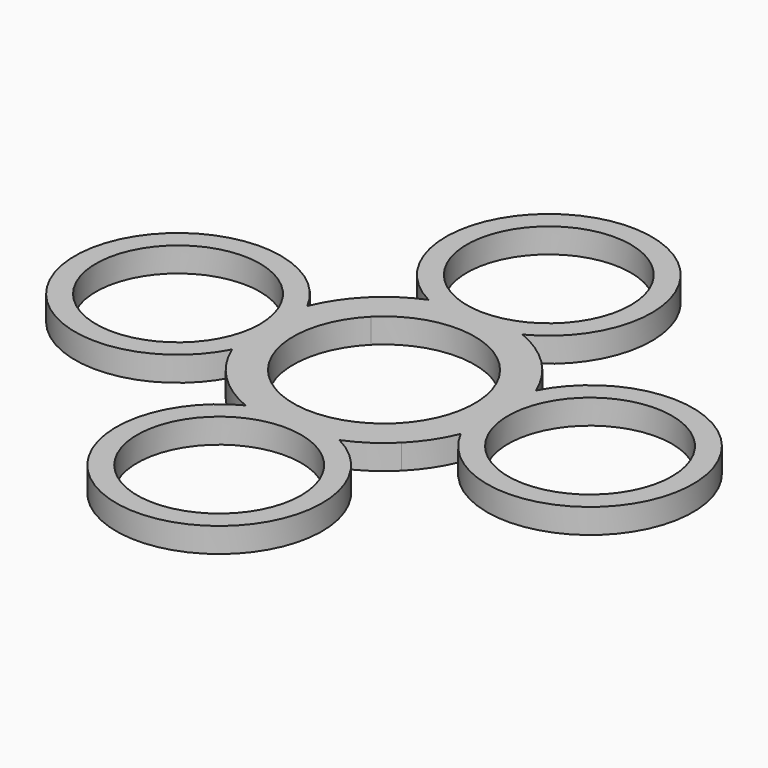
from build123d import *

# Parameters (mm, degrees)
F0_R     = 9.95
F1_DEPTH = 3


with BuildPart() as f1:
    # F0 (on Top) → F1 (new body)
    with BuildSketch(Plane.XY):
        with BuildLine():
            ThreePointArc((5.699507, 13.875), (0, 37.5), (-5.699507, 13.875))
            ThreePointArc((-5.699507, 13.875), (-8.315221, 12.484274), (-10.606602, 10.606602))
            ThreePointArc((-10.606602, 10.606602), (-12.484274, 8.315221), (-13.875, 5.699507))
            ThreePointArc((-13.875, 5.699507), (-37.5, 0), (-13.875, -5.699507))
            ThreePointArc((-13.875, -5.699507), (-12.484274, -8.315221), (-10.606602, -10.606602))
            ThreePointArc((-10.606602, -10.606602), (-8.315221, -12.484274), (-5.699507, -13.875))
            ThreePointArc((-5.699507, -13.875), (0, -37.5), (5.699507, -13.875))
            ThreePointArc((5.699507, -13.875), (8.315221, -12.484274), (10.606602, -10.606602))
            ThreePointArc((10.606602, -10.606602), (12.484274, -8.315221), (13.875, -5.699507))
            ThreePointArc((13.875, -5.699507), (37.5, 0), (13.875, 5.699507))
            ThreePointArc((13.875, 5.699507), (12.484274, 8.315221), (10.606602, 10.606602))
            ThreePointArc((10.606602, 10.606602), (8.315221, 12.484274), (5.699507, 13.875))
        make_face()
        with Locations((0, -25)):
            Circle(F0_R, mode=Mode.SUBTRACT)
        with Locations((-25, 0)):
            Circle(F0_R, mode=Mode.SUBTRACT)
        with BuildLine():
            ThreePointArc((-7.778175, 7.778175), (0, 11), (7.778175, 7.778175))
            ThreePointArc((7.778175, 7.778175), (11, 0), (7.778175, -7.778175))
            ThreePointArc((7.778175, -7.778175), (0, -11), (-7.778175, -7.778175))
            ThreePointArc((-7.778175, -7.778175), (-11, 0), (-7.778175, 7.778175))
        make_face(mode=Mode.SUBTRACT)
        with Locations((25, 0)):
            Circle(F0_R, mode=Mode.SUBTRACT)
        with Locations((0, 25)):
            Circle(F0_R, mode=Mode.SUBTRACT)
    extrude(amount=F1_DEPTH)


solid = f1.part
